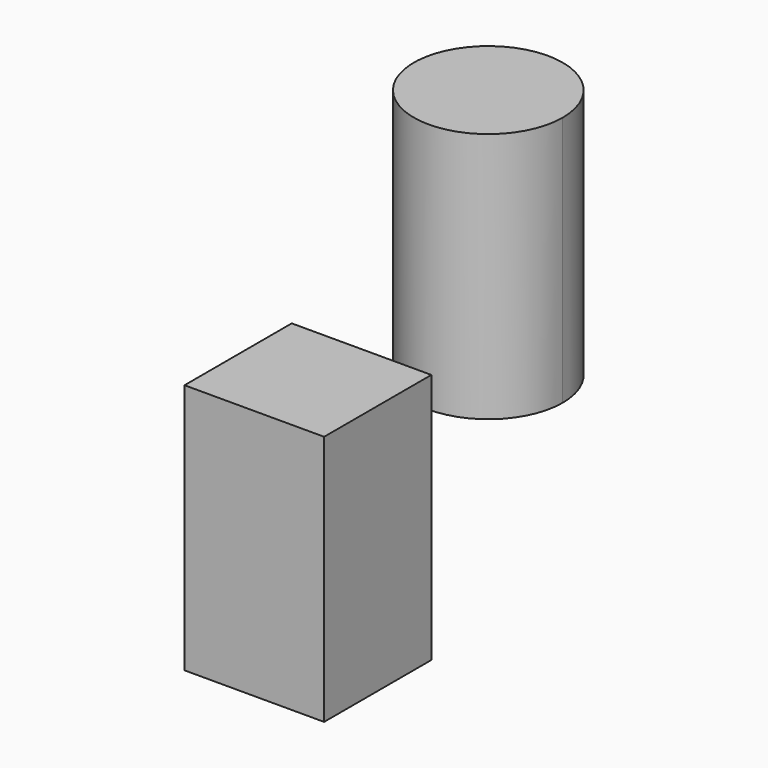
from build123d import *

# Parameters (mm, degrees)
F1_DEPTH = 25


with BuildPart() as f1:
    # F0 (on Top) → F1 (new body)
    with BuildSketch(Plane.XY):
        with BuildLine():
            ThreePointArc((-38.8557095999, 14.1416667029), (-39.1992092506, 16.3726617141), (-40.197890669, 18.3970051075))
            ThreePointArc((-40.197890669, 18.3970051075), (-53.3457934483, 11.9106716918), (-38.8557095999, 14.1416667029))
        make_face()
    extrude(amount=F1_DEPTH)


with BuildPart() as f1b:
    # F0 (on Top) → F1, piece 2 (new body)
    with BuildSketch(Plane.XY):
        Polygon((-19.7657570243, -26.0818563402), (-26.994869113, -26.0818563402), (-33.6678959429, -26.0818563402), (-33.6678959429, -39.42791), (-19.7657570243, -39.42791), align=None)
    extrude(amount=F1_DEPTH)


solid = Compound([f1.part, f1b.part])
